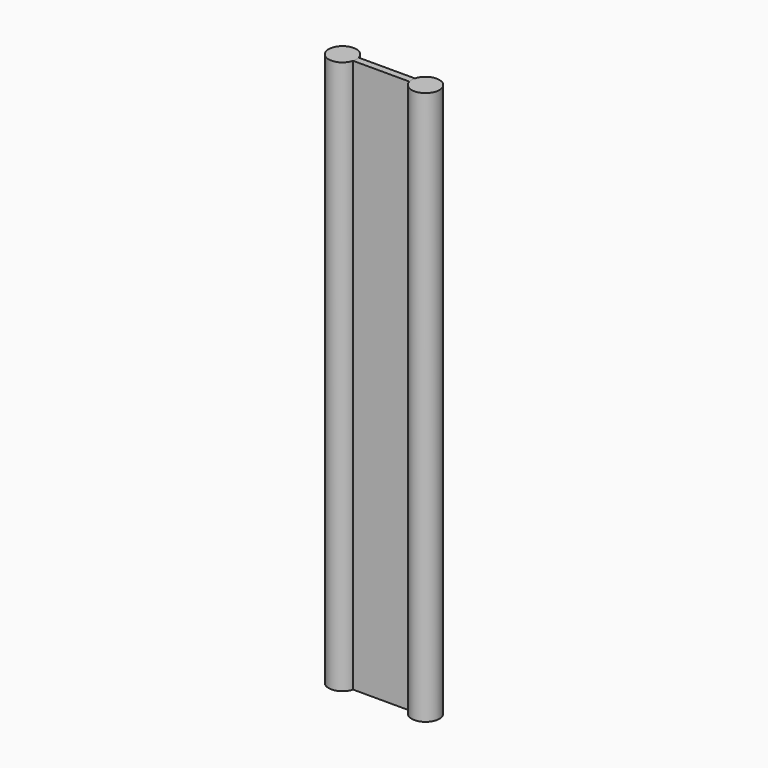
from build123d import *

# Parameters (mm, degrees)
F0_R     = 12.7
F2_DEPTH = 508


with BuildPart() as f2:
    # F0 (on Top) → F2 (new body)
    with BuildSketch(Plane.XY):
        with Locations((-38.1, 0)):
            Circle(F0_R)
    extrude(amount=F2_DEPTH)


with BuildPart() as f2b:
    # F0 (on Top) → F2, piece 2 (new body)
    with BuildSketch(Plane.XY):
        with Locations((38.1, 0)):
            Circle(F0_R)
    extrude(amount=F2_DEPTH)


with BuildPart() as f2c:
    # F1 (on Top) → F2, piece 3 (new body)
    with BuildSketch(Plane.XY):
        with BuildLine():
            ThreePointArc((-25.7351007313, 3.175), (-25.4483427685, 0), (-25.7351007313, -3.175))
            Line((-25.7351007313, -3.175), (25.9355138987, -3.175))
            ThreePointArc((25.9355138987, -3.175), (25.517717555, 0), (25.9355138987, 3.175))
            Line((25.9355138987, 3.175), (-25.7351007313, 3.175))
        make_face()
    extrude(amount=F2_DEPTH)


solid = Compound([f2.part, f2b.part, f2c.part])
